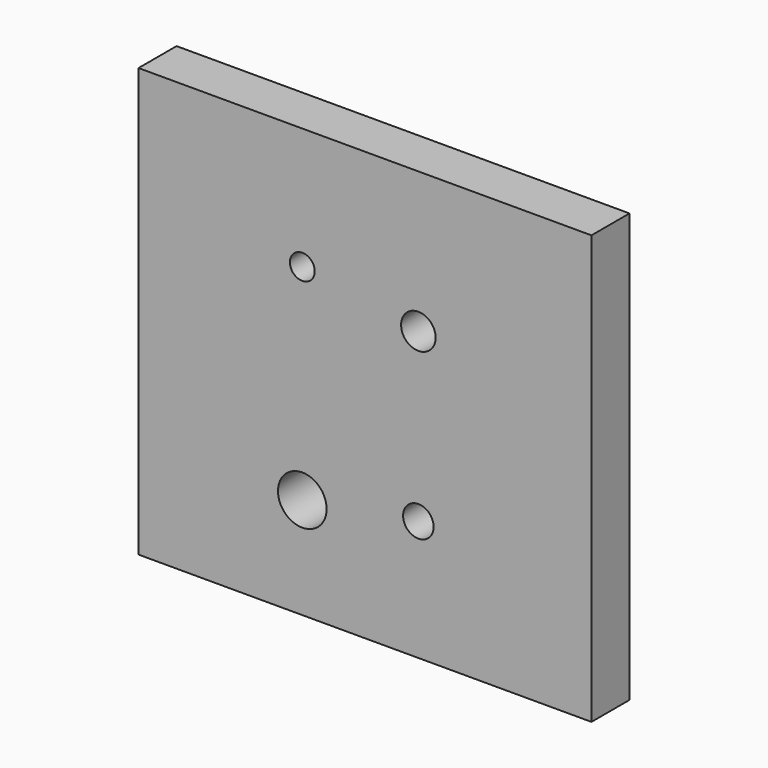
from build123d import *

# Parameters (mm, degrees)
F0_W     = 238.260204
F0_H     = 225.335434
F0_R     = 12.796383
F0_R_2   = 8.036505
F0_R_3   = 6.535103
F0_R_4   = 9.083022
F1_DEPTH = 25


with BuildPart() as f1:
    # F0 (on Front) → F1 (new body)
    with BuildSketch(Plane.XZ):
        with Locations((32.97555, 59.378974)):
            Rectangle(F0_W, F0_H)
        Circle(F0_R, mode=Mode.SUBTRACT)
        with Locations((61.056477, 10.000178)):
            Circle(F0_R_2, mode=Mode.SUBTRACT)
        with Locations((0, 108)):
            Circle(F0_R_3, mode=Mode.SUBTRACT)
        with Locations((61.056535, 98.000178)):
            Circle(F0_R_4, mode=Mode.SUBTRACT)
    extrude(amount=F1_DEPTH)


solid = f1.part
